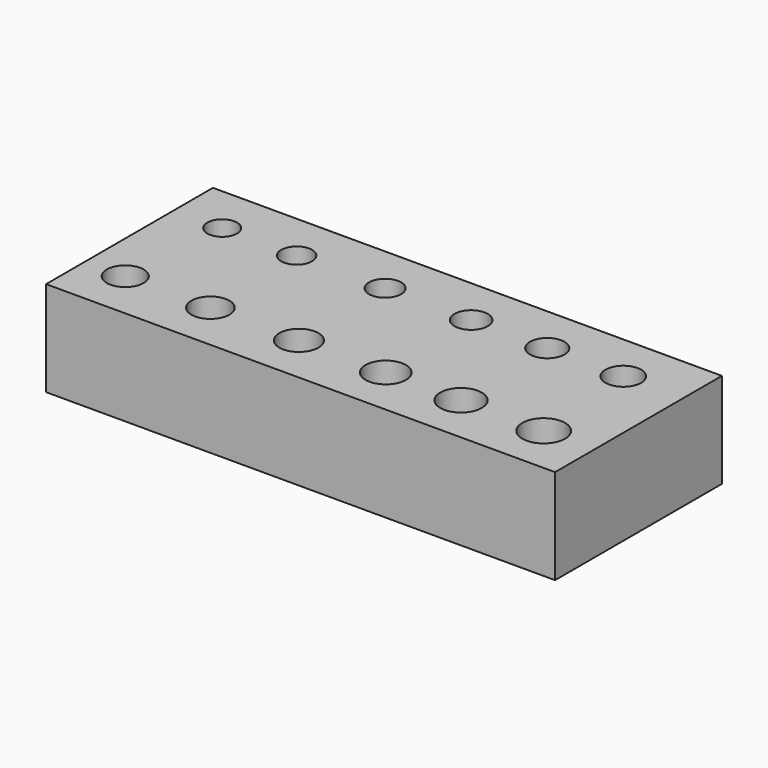
from build123d import *

# Parameters (mm, degrees)
F0_W     = 42.807285
F0_H     = 17.540547
F0_R     = 1.55
F0_R_2   = 1.6
F0_R_3   = 1.65
F0_R_4   = 1.7
F0_R_5   = 1.75
F0_R_6   = 1.8
F0_R_7   = 1.25
F0_R_8   = 1.3
F0_R_9   = 1.35
F0_R_10  = 1.4
F0_R_11  = 1.45
F0_R_12  = 1.5
F1_DEPTH = 8
F2_DEPTH = 2


with BuildPart() as f1:
    # F0 (on Top) → F1 (new body)
    with BuildSketch(Plane.XY):
        with Locations((-25.905089, -4.67933)):
            Rectangle(F0_W, F0_H)
        with Locations((-43.950986, -9.325703)):
            Circle(F0_R, mode=Mode.SUBTRACT)
        with Locations((-36.78672, -9.325703)):
            Circle(F0_R_2, mode=Mode.SUBTRACT)
        with Locations((-29.344233, -9.325703)):
            Circle(F0_R_3, mode=Mode.SUBTRACT)
        with Locations((-22.040857, -9.325703)):
            Circle(F0_R_4, mode=Mode.SUBTRACT)
        with Locations((-15.711265, -9.325703)):
            Circle(F0_R_5, mode=Mode.SUBTRACT)
        with Locations((-8.755669, -9.325703)):
            Circle(F0_R_6, mode=Mode.SUBTRACT)
        with Locations((-43.255426, 0)):
            Circle(F0_R_7, mode=Mode.SUBTRACT)
        with Locations((-36.995389, 0)):
            Circle(F0_R_8, mode=Mode.SUBTRACT)
        with Locations((-29.552901, 0)):
            Circle(F0_R_9, mode=Mode.SUBTRACT)
        with Locations((-22.319082, 0)):
            Circle(F0_R_10, mode=Mode.SUBTRACT)
        with Locations((-15.919933, 0)):
            Circle(F0_R_11, mode=Mode.SUBTRACT)
        with Locations((-9.520785, 0)):
            Circle(F0_R_12, mode=Mode.SUBTRACT)
    extrude(amount=F1_DEPTH)

    # F0 (on Top) → F2 (join)
    with BuildSketch(Plane.XY):
        with Locations((-43.950986, -9.325703)):
            Circle(F0_R)
        with Locations((-36.78672, -9.325703)):
            Circle(F0_R_2)
        with Locations((-29.344233, -9.325703)):
            Circle(F0_R_3)
        with Locations((-22.040857, -9.325703)):
            Circle(F0_R_4)
        with Locations((-15.711265, -9.325703)):
            Circle(F0_R_5)
        with Locations((-8.755669, -9.325703)):
            Circle(F0_R_6)
        with Locations((-9.520785, 0)):
            Circle(F0_R_12)
        with Locations((-15.919933, 0)):
            Circle(F0_R_11)
        with Locations((-22.319082, 0)):
            Circle(F0_R_10)
        with Locations((-29.552901, 0)):
            Circle(F0_R_9)
        with Locations((-36.995389, 0)):
            Circle(F0_R_8)
        with Locations((-43.255426, 0)):
            Circle(F0_R_7)
    extrude(amount=F2_DEPTH)


solid = f1.part
